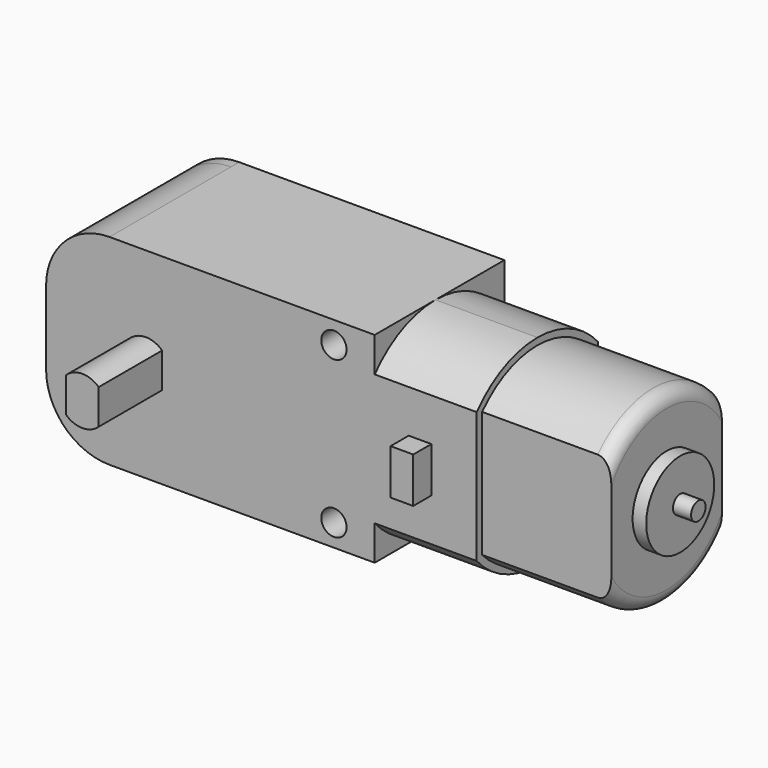
from build123d import *

# Parameters (mm, degrees)
F0_W      = 36.83
F0_H      = 17.018
F1_DEPTH  = 22.479
F2_R      = 7.112
F1_FACE_W = 17.018
F1_FACE_H = 8.255
F4_DEPTH  = 27.432
F6_DEPTH  = 16.002
F7_R      = 12.816169
F7_R_2    = 4.7625
F8_DEPTH  = 1.524
F9_R      = 1.524
F10_R     = 1.016
F11_DEPTH = 2.032
F12_W     = 2.54
F12_H     = 5.08
F13_DEPTH = 2.54
F15_DEPTH = 1.143
F16_W     = 2.54
F16_H     = 5.08
F17_DEPTH = 2.54
F19_DEPTH = 8.89
F21_DEPTH = 8.89
F22_R     = 1.324614
F23_DEPTH = 1.9558
F24_R     = 1.419753
F25_DEPTH = 25.4


with BuildPart() as f1:
    # F0 (on Top) → F1 (new body)
    with BuildSketch(Plane.XY):
        with Locations((0, -0.762)):
            Rectangle(F0_W, F0_H)
    extrude(amount=F1_DEPTH)

    # F2
    f2_edges = [f1.edges().sort_by_distance(p)[0] for p in [
        (-18.415, -0.762, 22.479),
        (-18.415, -0.762, 0),
    ]]
    fillet(f2_edges, radius=F2_R)

    # F3 (on face) + F1_face (on face) → F4 (join)
    with BuildSketch(Plane.YZ.offset(18.415)):
        with BuildLine():
            Line((-9.271, 18.582747), (-9.271, 3.896253))
            ThreePointArc((-9.271, 3.896253), (-5.441313, 1.020381), (-0.762, 0))
            ThreePointArc((-0.762, 0), (3.917313, 1.020381), (7.747, 3.896253))
            Line((7.747, 3.896253), (7.747, 18.582747))
            ThreePointArc((7.747, 18.582747), (3.917313, 21.458619), (-0.762, 22.479))
            ThreePointArc((-0.762, 22.479), (-5.441313, 21.458619), (-9.271, 18.582747))
        make_face()
    with BuildSketch(Plane(origin=(18.415, -0.762, 11.2395), x_dir=(0, 1, 0), z_dir=(1, 0, 0))):
        Rectangle(F1_FACE_W, F1_FACE_H)
    extrude(amount=F4_DEPTH)

    # F5 (on face) → F6 (cut)
    with BuildSketch(Plane.YZ.offset(45.847)):
        with BuildLine():
            ThreePointArc((13.335, 20.428588), (-0.762, 28.067), (-14.859, 20.428588))
            Line((-14.859, 20.428588), (-14.859, 2.050412))
            ThreePointArc((-14.859, 2.050412), (-0.762, -5.588), (13.335, 2.050412))
            Line((13.335, 2.050412), (13.335, 20.428588))
        make_face()
        with BuildLine():
            ThreePointArc((-9.271, 18.582747), (-0.762, 22.479), (7.747, 18.582747))
            Line((7.747, 18.582747), (7.747, 3.896253))
            ThreePointArc((7.747, 3.896253), (-0.762, 0), (-9.271, 3.896253))
            Line((-9.271, 3.896253), (-9.271, 18.582747))
        make_face(mode=Mode.SUBTRACT)
        with BuildLine():
            Line((7.747, 3.896253), (7.747, 18.582747))
            ThreePointArc((7.747, 18.582747), (-0.762, 22.479), (-9.271, 18.582747))
            Line((-9.271, 18.582747), (-9.271, 3.896253))
            ThreePointArc((-9.271, 3.896253), (-0.762, 0), (7.747, 3.896253))
        make_face()
        with BuildLine():
            Line((-8.509, 4.185282), (-8.509, 18.293718))
            ThreePointArc((-8.509, 18.293718), (-0.762, 21.717), (6.985, 18.293718))
            Line((6.985, 18.293718), (6.985, 4.185282))
            ThreePointArc((6.985, 4.185282), (-0.762, 0.762), (-8.509, 4.185282))
        make_face(mode=Mode.SUBTRACT)
    extrude(amount=-F6_DEPTH, mode=Mode.SUBTRACT)

    # F7 (on face) → F8 (cut)
    with BuildSketch(Plane.YZ.offset(45.847)):
        with Locations((-0.762, 11.2395)):
            Circle(F7_R)
        with BuildLine():
            ThreePointArc((6.985, 4.185282), (-0.762, 0.762), (-8.509, 4.185282))
            Line((-8.509, 4.185282), (-8.509, 18.293718))
            ThreePointArc((-8.509, 18.293718), (-0.762, 21.717), (6.985, 18.293718))
            Line((6.985, 18.293718), (6.985, 4.185282))
        make_face(mode=Mode.SUBTRACT)
        with BuildLine():
            Line((-8.509, 18.293718), (-8.509, 4.185282))
            ThreePointArc((-8.509, 4.185282), (-0.762, 0.762), (6.985, 4.185282))
            Line((6.985, 4.185282), (6.985, 18.293718))
            ThreePointArc((6.985, 18.293718), (-0.762, 21.717), (-8.509, 18.293718))
        make_face()
        with Locations((-0.762, 11.2395)):
            Circle(F7_R_2, mode=Mode.SUBTRACT)
    extrude(amount=-F8_DEPTH, mode=Mode.SUBTRACT)

    # F9
    f9_edges = [f1.edges().sort_by_distance(p)[0] for p in [
        (44.323, -0.762, 0.762),
        (44.323, -0.762, 21.717),
    ]]
    fillet(f9_edges, radius=F9_R)

    # F10 (on face) → F11 (join)
    with BuildSketch(Plane.YZ.offset(45.847)):
        with Locations((-0.762, 11.2395)):
            Circle(F10_R)
    extrude(amount=F11_DEPTH)

    # F12 (on face) → F13 (join)
    with BuildSketch(Plane.XZ.offset(9.271)):
        with Locations((23.495, 11.2395)):
            Rectangle(F12_W, F12_H)
    extrude(amount=F13_DEPTH)

    # F14 (on face) → F15 (join)
    with BuildSketch(Plane(origin=(0, 7.747, 0), x_dir=(-1, 0, 0), z_dir=(0, 1, 0))):
        with BuildLine():
            Line((-18.415, 0), (11.303, 0))
            ThreePointArc((11.303, 0), (16.331943, 2.083057), (18.415, 7.112))
            Line((18.415, 7.112), (18.415, 15.367))
            ThreePointArc((18.415, 15.367), (16.331943, 20.395943), (11.303, 22.479))
            Line((11.303, 22.479), (-18.415, 22.479))
            Line((-18.415, 22.479), (-18.415, 18.582747))
            Line((-18.415, 18.582747), (-18.415, 3.896253))
            Line((-18.415, 3.896253), (-18.415, 0))
        make_face()
    extrude(amount=F15_DEPTH)

    # F16 (on face) → F17 (join)
    with BuildSketch(Plane(origin=(0, 7.747, 0), x_dir=(-1, 0, 0), z_dir=(0, 1, 0))):
        with Locations((-23.495, 11.2395)):
            Rectangle(F16_W, F16_H)
    extrude(amount=F17_DEPTH)

    # F18 (on face) → F19 (join)
    with BuildSketch(Plane.XZ.offset(9.271)):
        with BuildLine():
            Line((-5.4102, 9.280857), (-5.4102, 13.198143))
            ThreePointArc((-5.4102, 13.198143), (-7.239, 13.9192), (-9.0678, 13.198143))
            Line((-9.0678, 13.198143), (-9.0678, 9.280857))
            ThreePointArc((-9.0678, 9.280857), (-7.239, 8.5598), (-5.4102, 9.280857))
        make_face()
    extrude(amount=F19_DEPTH)

    # F20 (on face) → F21 (join)
    with BuildSketch(Plane(origin=(0, 8.89, 0), x_dir=(-1, 0, 0), z_dir=(0, 1, 0))):
        with BuildLine():
            Line((5.4102, 13.198143), (5.4102, 9.280857))
            ThreePointArc((5.4102, 9.280857), (7.239, 8.5598), (9.0678, 9.280857))
            Line((9.0678, 9.280857), (9.0678, 13.198143))
            ThreePointArc((9.0678, 13.198143), (7.239, 13.9192), (5.4102, 13.198143))
        make_face()
    extrude(amount=F21_DEPTH)

    # F22 (on face) → F23 (join)
    with BuildSketch(Plane(origin=(0, 8.89, 0), x_dir=(-1, 0, 0), z_dir=(0, 1, 0))):
        with Locations((-4.0386, 11.2395)):
            Circle(F22_R)
    extrude(amount=F23_DEPTH)

    # F24 (on face) → F25 (cut)
    with BuildSketch(Plane.XZ.offset(9.271)):
        with Locations((13.843, 20.0025)):
            Circle(F24_R)
        with Locations((13.843, 2.4765)):
            Circle(F24_R)
    extrude(amount=-F25_DEPTH, mode=Mode.SUBTRACT)


solid = f1.part
